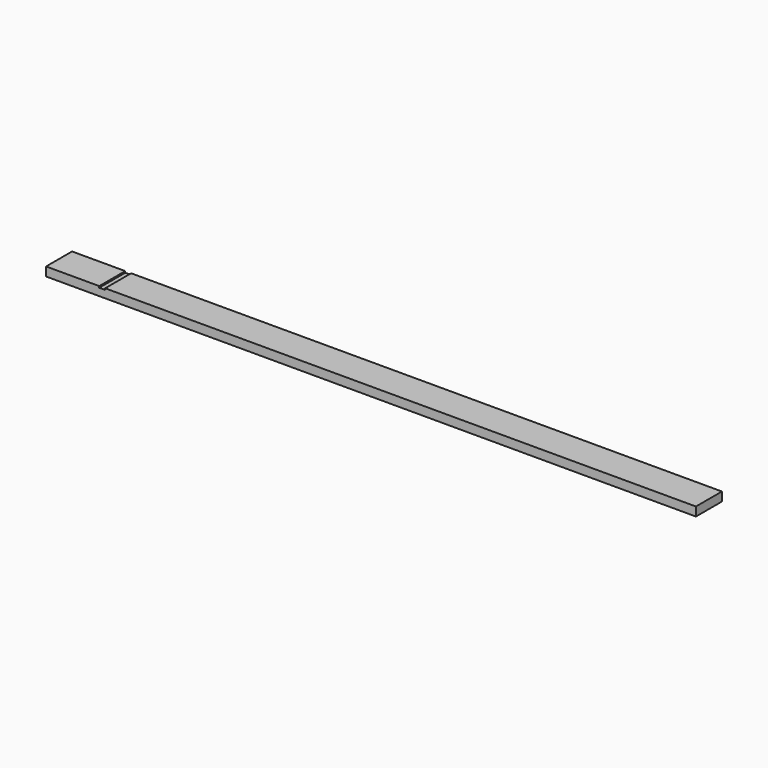
from build123d import *

# Parameters (mm, degrees)
SKETCH_W     = 2200
SKETCH_H     = 110
PAD_DEPTH    = 15
SKETCH001_W  = 20
SKETCH001_H  = 110
POCKET_DEPTH = 5


with BuildPart() as part:
    # Sketch → Pad (new body, symmetric)
    with BuildSketch(Plane.XY):
        Rectangle(SKETCH_W, SKETCH_H)
    extrude(amount=PAD_DEPTH, both=True)

    # Sketch001 → Pocket (cut)
    with BuildSketch(Plane.XY.offset(15)):
        with Locations((-910, 0)):
            Rectangle(SKETCH001_W, SKETCH001_H)
    extrude(amount=-POCKET_DEPTH, mode=Mode.SUBTRACT)


solid = part.part
